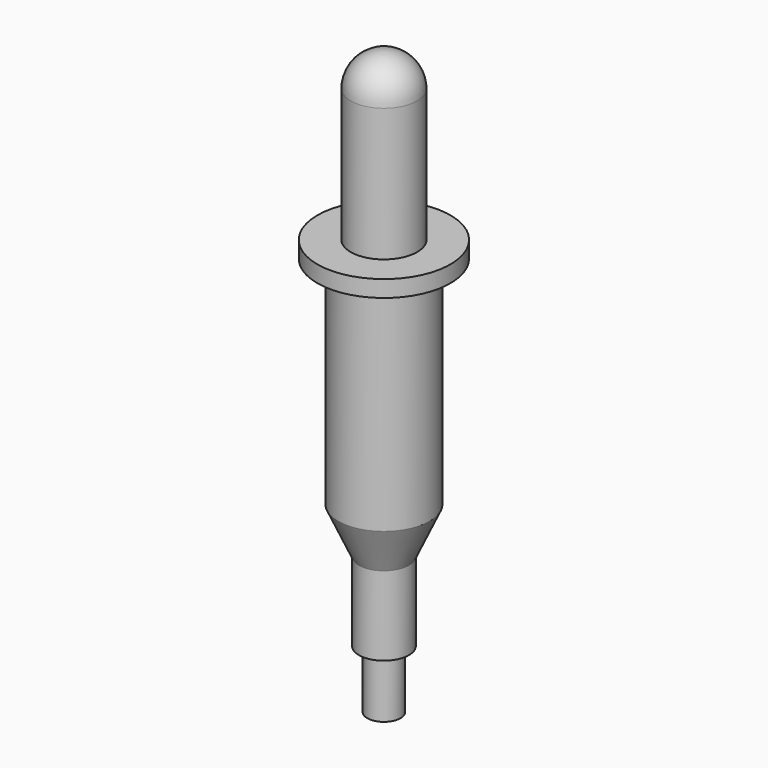
from build123d import *


with BuildPart() as f1:
    # F0 (on Front) → F1 (revolve)
    with BuildSketch(Plane.XZ):
        with BuildLine():
            Line((-2, 7), (-2, 0))
            Line((-2, 0), (0, 0))
            Line((0, 0), (0, 70))
            ThreePointArc((0, 70), (-2.828427, 68.828427), (-4, 66))
            Line((-4, 66), (-4, 50))
            Line((-4, 50), (-8, 50))
            Line((-8, 50), (-8, 48))
            Line((-8, 48), (-5.5, 48))
            Line((-5.5, 48), (-5.5, 22))
            Line((-5.5, 22), (-3, 16.5))
            Line((-3, 16.5), (-3, 7))
            Line((-3, 7), (-2, 7))
        make_face()
    revolve(axis=Axis((0, 0, 35), (0, 0, -1)))


solid = f1.part
